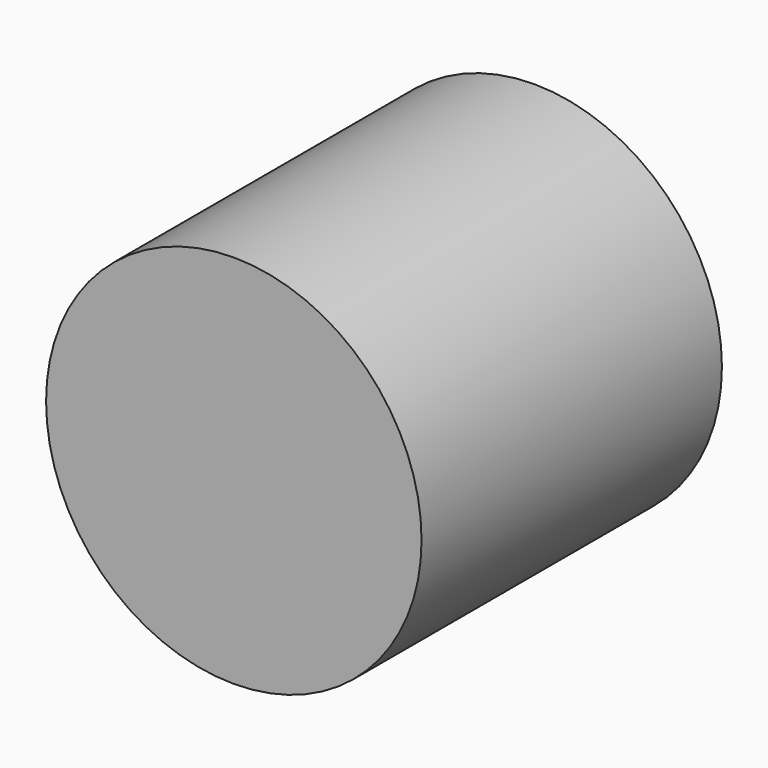
from build123d import *

# Parameters (mm, degrees)
F0_R      = 38.1
F1_DEPTH  = 38.1
F1_FACE_R = 38.1
F2_DEPTH  = 38.1


with BuildPart() as f1:
    # F0 (on Front) → F1 (new body)
    with BuildSketch(Plane.XZ):
        Circle(F0_R)
    extrude(amount=-F1_DEPTH)

    # F1_face (on face) → F2 (join)
    with BuildSketch(Plane(origin=(0, 38.1, 0), x_dir=(1, 0, 0), z_dir=(0, 1, 0))):
        Circle(F1_FACE_R)
    extrude(amount=F2_DEPTH)


solid = f1.part
